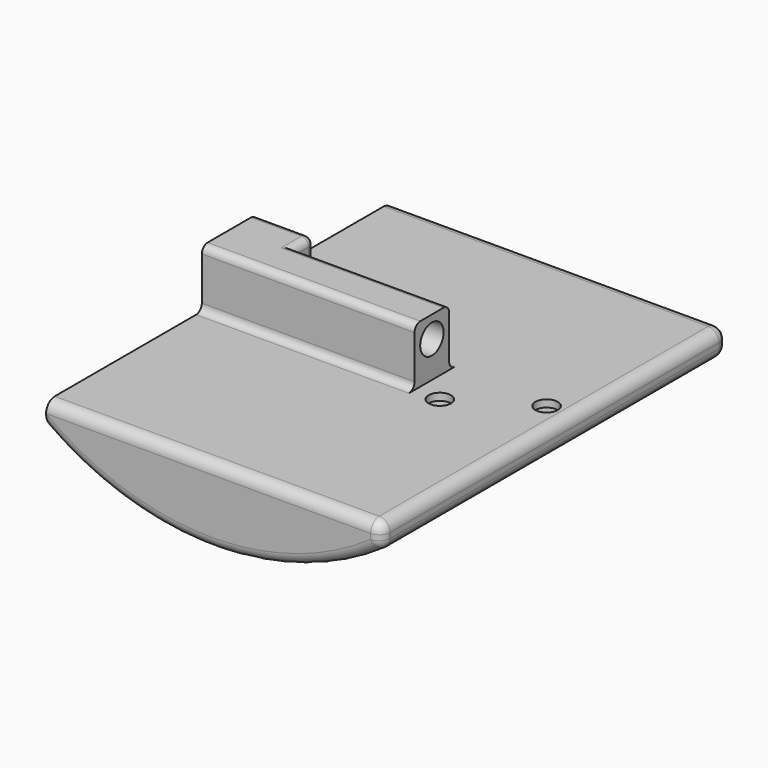
from build123d import *

# Parameters (mm, degrees)
CYLINDER020_R             = 3.1
CYLINDER020_DEPTH         = 3
CYLINDER021_R             = 3.1
CYLINDER021_DEPTH         = 3
CYLINDER022_R             = 1.7
CYLINDER022_DEPTH         = 21
BOX003_W                  = 23
BOX003_H                  = 5.2
BOX003_DEPTH              = 3
PRISM_DEPTH               = 3
FUSION006_PLACEMENT_ANGLE = 90
CYLINDER006_R             = 4.05
CYLINDER006_DEPTH         = 270
EXTRUDE_DEPTH             = 60
BOX002_W                  = 43
BOX002_H                  = 12
BOX002_DEPTH              = 16
BOX_W                     = 16
BOX_H                     = 19
BOX_DEPTH                 = 16
FILLET_R                  = 3
FILLET001_R               = 2


with BuildPart() as cilindro020:
    # Cylinder020 → Cylinder020 (new body)
    with BuildSketch(Plane(origin=(35, 6, 62), x_dir=(1, 0, 0), z_dir=(0, 0, -1))):
        Circle(CYLINDER020_R)
    extrude(amount=CYLINDER020_DEPTH)


with BuildPart() as cilindro021:
    # Cylinder021 → Cylinder021 (new body)
    with BuildSketch(Plane(origin=(15, -6, 62), x_dir=(1, 0, 0), z_dir=(0, 0, -1))):
        Circle(CYLINDER021_R)
    extrude(amount=CYLINDER021_DEPTH)


with BuildPart() as cilindro022:
    # Cylinder022 → Cylinder022 (new body)
    with BuildSketch(Plane.XY.offset(-6)):
        Circle(CYLINDER022_R)
    extrude(amount=CYLINDER022_DEPTH)


with BuildPart() as cubo003:
    # Box003 → Box003 (new body)
    with BuildSketch(Plane(origin=(0, -2.6, 0), x_dir=(1, 0, 0), z_dir=(0, 0, 1))):
        with Locations((11.5, 2.6)):
            Rectangle(BOX003_W, BOX003_H)
    extrude(amount=BOX003_DEPTH)


with BuildPart() as hueco_tornillo:
    # Prism → Prism (new body)
    with BuildSketch(Plane.XY):
        Polygon((3, 0), (1.5, 2.598076), (-1.5, 2.598076), (-3, 0), (-1.5, -2.598076), (1.5, -2.598076), align=None)
    extrude(amount=PRISM_DEPTH)

    # Fusion006: union Cilindro022, Cubo003
    add(cilindro022.part)
    add(cubo003.part)


with BuildPart() as hueco_tornillo_1:
    # Fusion006 placement: moved
    add(hueco_tornillo.part.moved(Location((-43, 7, 71))).rotate(Axis((-43, 7, 71), (-1, 0, 0)), FUSION006_PLACEMENT_ANGLE))


with BuildPart() as fusion005:
    # Cylinder006 → Cylinder006 (new body)
    with BuildSketch(Plane(origin=(-51, 0, 71), x_dir=(0, 0, -1), z_dir=(1, 0, 0))):
        Circle(CYLINDER006_R)
    extrude(amount=CYLINDER006_DEPTH)

    # Fusion005: union Cilindro020, Cilindro021, hueco_tornillo
    add(cilindro020.part)
    add(cilindro021.part)
    add(hueco_tornillo_1.part)


with BuildPart() as extrude_body:
    # Sketch → Extrude (new body, symmetric)
    with BuildSketch(Plane.XZ):
        with BuildLine():
            Line((-51, 61), (42, 61))
            Line((42, 61), (42, 55))
            ThreePointArc((-51, 54.267), (-4.382542, 39.730934), (42, 55))
            Line((-51, 61), (-51, 54.267))
        make_face()
    extrude(amount=EXTRUDE_DEPTH, both=True)


with BuildPart() as cubo002:
    # Box002 → Box002 (new body)
    with BuildSketch(Plane(origin=(-35, -6, 61), x_dir=(1, 0, 0), z_dir=(0, 0, 1))):
        with Locations((21.5, 6)):
            Rectangle(BOX002_W, BOX002_H)
    extrude(amount=BOX002_DEPTH)


with BuildPart() as fillet001:
    # Box → Box (new body)
    with BuildSketch(Plane(origin=(-51, -6, 61), x_dir=(1, 0, 0), z_dir=(0, 0, 1))):
        with Locations((8, 9.5)):
            Rectangle(BOX_W, BOX_H)
    extrude(amount=BOX_DEPTH)

    # Fusion002: union Extrude body, Cubo002
    add(extrude_body.part)
    add(cubo002.part)

    # Cut006: cut Fusion005
    add(fusion005.part, mode=Mode.SUBTRACT)

    # Fillet
    fillet_edges = [fillet001.edges().sort_by_distance(p)[0] for p in [
        (-4.5, 60, 61),
        (42, 0, 61),
        (-4.5, -60, 61),
        (42, 60, 58),
        (-4.382542, 60, 39.730934),
        (42, 0, 55),
        (42, -60, 58),
        (-4.382542, -60, 39.730934),
    ]]
    fillet(fillet_edges, radius=FILLET_R)

    # Fillet001
    fillet001_edges = [fillet001.edges().sort_by_distance(p)[0] for p in [
        (-43, 13, 61),
        (-35, 9.5, 61),
        (-13.5, 6, 61),
        (-21.5, -6, 61),
        (-35, 13, 69),
        (-43, 13, 77),
        (-35, 9.5, 77),
        (-13.5, 6, 77),
        (-21.5, -6, 77),
    ]]
    fillet(fillet001_edges, radius=FILLET001_R)


solid = fillet001.part
